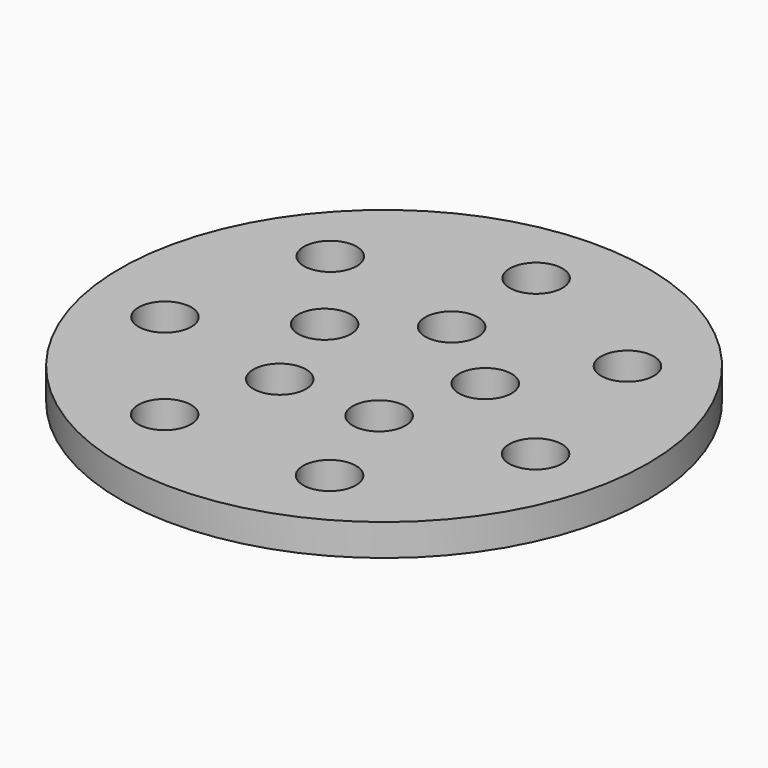
from build123d import *

# Parameters (mm, degrees)
F0_R     = 25
F0_R_2   = 2.5
F1_DEPTH = 3


with BuildPart() as f1:
    # F0 (on Top) → F1 (new body)
    with BuildSketch(Plane.XY):
        Circle(F0_R)
        with Locations((-7.809907, -16.21744)):
            Circle(F0_R_2, mode=Mode.SUBTRACT)
        with Locations((-17.548702, -4.005377)):
            Circle(F0_R_2, mode=Mode.SUBTRACT)
        with Locations((-4.702282, -6.472136)):
            Circle(F0_R_2, mode=Mode.SUBTRACT)
        with Locations((7.809907, -16.21744)):
            Circle(F0_R_2, mode=Mode.SUBTRACT)
        with Locations((4.702282, -6.472136)):
            Circle(F0_R_2, mode=Mode.SUBTRACT)
        with Locations((17.548702, -4.005377)):
            Circle(F0_R_2, mode=Mode.SUBTRACT)
        with Locations((-14.072967, 11.222816)):
            Circle(F0_R_2, mode=Mode.SUBTRACT)
        with Locations((-7.608452, 2.472136)):
            Circle(F0_R_2, mode=Mode.SUBTRACT)
        with Locations((7.608452, 2.472136)):
            Circle(F0_R_2, mode=Mode.SUBTRACT)
        with Locations((0, 8)):
            Circle(F0_R_2, mode=Mode.SUBTRACT)
        with Locations((14.072967, 11.222816)):
            Circle(F0_R_2, mode=Mode.SUBTRACT)
        with Locations((0, 18)):
            Circle(F0_R_2, mode=Mode.SUBTRACT)
    extrude(amount=F1_DEPTH)


solid = f1.part
